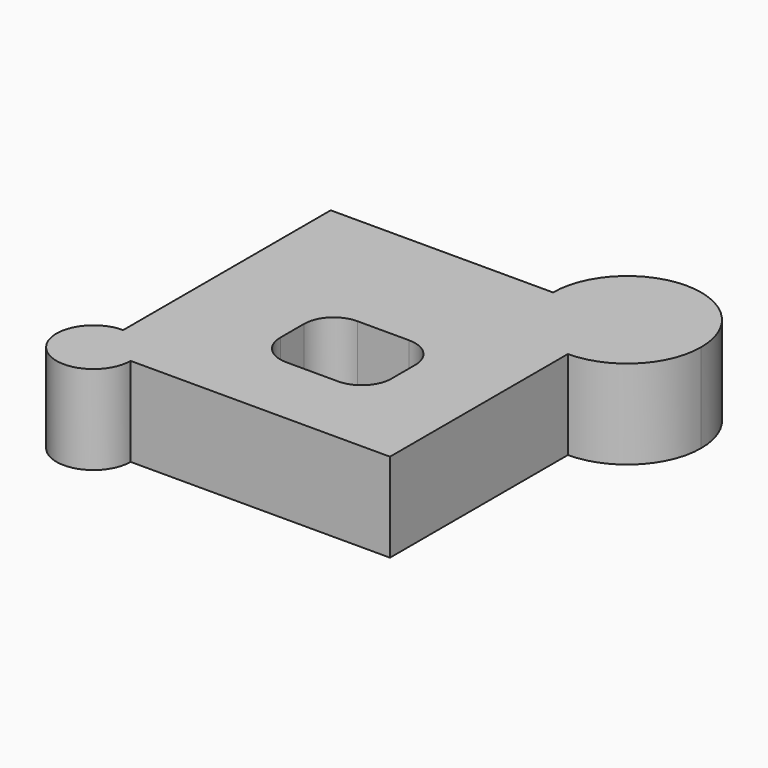
from build123d import *

# Parameters (mm, degrees)
F1_DEPTH = 12


with BuildPart() as f1:
    # F0 (on Top) → F1 (new body)
    with BuildSketch(Plane.XY):
        with BuildLine():
            Line((-9.867295, 40), (-39.867295, 40))
            Line((-39.867295, 40), (-39.867295, 5))
            ThreePointArc((-39.867295, 5), (-36.331761, 3.535534), (-34.867295, 0))
            Line((-34.867295, 0), (0.132705, 0))
            Line((0.132705, 0), (0.132705, 30))
            ThreePointArc((0.132705, 30), (-6.938363, 32.928932), (-9.867295, 40))
        make_face()
        with BuildLine():
            ThreePointArc((-25.867295, 18), (-24.695722, 20.828427), (-21.867295, 22))
            Line((-21.867295, 22), (-14.867295, 22))
            ThreePointArc((-14.867295, 22), (-12.038868, 20.828427), (-10.867295, 18))
            Line((-10.867295, 18), (-10.867295, 14))
            ThreePointArc((-10.867295, 14), (-12.038868, 11.171573), (-14.867295, 10))
            Line((-14.867295, 10), (-21.867295, 10))
            ThreePointArc((-21.867295, 10), (-24.695722, 11.171573), (-25.867295, 14))
            Line((-25.867295, 14), (-25.867295, 18))
        make_face(mode=Mode.SUBTRACT)
        with BuildLine():
            Line((0.132705, 40), (-9.867295, 40))
            ThreePointArc((-9.867295, 40), (-6.938363, 32.928932), (0.132705, 30))
            Line((0.132705, 30), (0.132705, 40))
        make_face()
        with BuildLine():
            ThreePointArc((10.132705, 40), (0.132705, 50), (-9.867295, 40))
            Line((-9.867295, 40), (0.132705, 40))
            Line((0.132705, 40), (0.132705, 30))
            ThreePointArc((0.132705, 30), (7.203773, 32.928932), (10.132705, 40))
        make_face()
        with BuildLine():
            Line((-39.867295, 0), (-39.867295, 5))
            ThreePointArc((-39.867295, 5), (-43.402829, -3.535534), (-34.867295, 0))
            Line((-34.867295, 0), (-39.867295, 0))
        make_face()
        with BuildLine():
            ThreePointArc((-34.867295, 0), (-36.331761, 3.535534), (-39.867295, 5))
            Line((-39.867295, 5), (-39.867295, 0))
            Line((-39.867295, 0), (-34.867295, 0))
        make_face()
    extrude(amount=F1_DEPTH)


solid = f1.part
